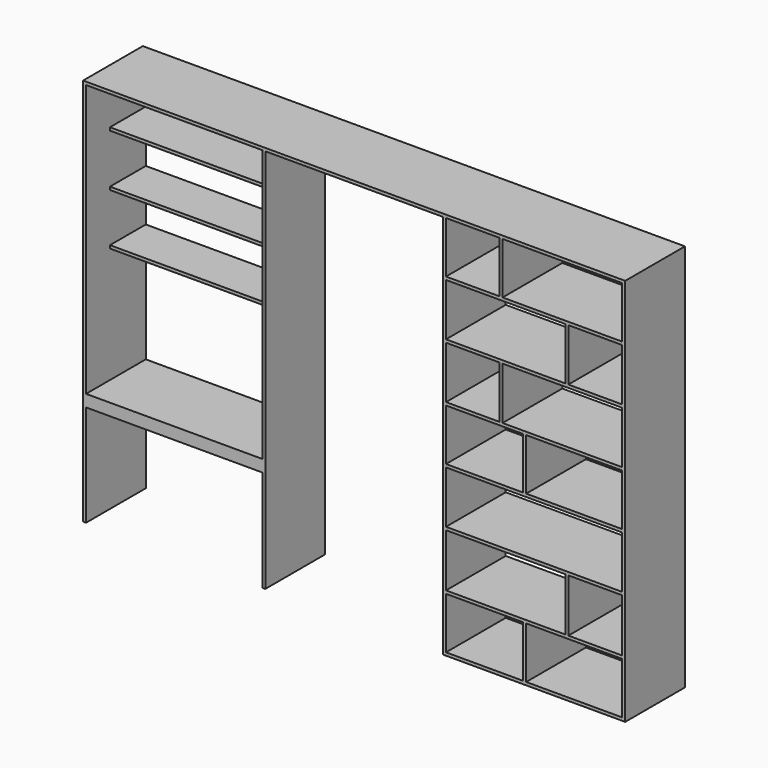
from build123d import *

# Parameters (mm, degrees)
F0_W     = 517.0604085922
F0_H     = 344.9999976158
F0_W_2   = 642.9395914078
F0_W_3   = 799.4206047058
F0_H_2   = 355.0000023842
F0_W_4   = 360.5793952942
F0_H_3   = 344.9999970198
F0_W_5   = 358.938703537
F0_H_4   = 350.0000196695
F0_W_6   = 801.061296463
F0_H_5   = 344.9999785423
F0_H_6   = 350.0000047684
F1_DEPTH = 500
F0_W_7   = 1180
F0_H_7   = 40
F2_DEPTH = 500
F3_DEPTH = 500
F4_START = -200
F0_H_8   = 20
F4_DEPTH = 300


with BuildPart() as f1:
    # F0 (on Front) → F1 (new body)
    with BuildSketch(Plane.XZ):
        Polygon((1414.4206047058, -1300), (1815, -1300), (1815, 1300), (605, 1300), (-605, 1300), (-1815, 1300), (-1815, -1300), (-1795, -1300), (-1795, -620), (-1795, -580), (-1795, -540), (-1795, 235), (-1795, 255), (-1795, 580), (-1795, 600), (-1795, 930), (-1795, 950), (-1795, 1280), (-615, 1280), (-615, 950), (-615, 930), (-615, 600), (-615, 580), (-615, 255), (-615, 235), (-615, -540), (-615, -580), (-615, -620), (-615, -1300), (-605, -1300), (-595, -1300), (-595, 900), (-595, 1280), (595, 1280), (595, 900), (595, -1300), (605, -1300), (665, -1300), align=None)
        with Locations((873.5302042961, -1107.5000011921)):
            Rectangle(F0_W, F0_H, mode=Mode.SUBTRACT)
        with Locations((1473.5302042961, -1107.5000011921)):
            Rectangle(F0_W_2, F0_H, mode=Mode.SUBTRACT)
        with Locations((1014.7103023529, -737.5000011921)):
            Rectangle(F0_W_3, F0_H_2, mode=Mode.SUBTRACT)
        with Locations((1614.7103023529, -737.5000011921)):
            Rectangle(F0_W_4, F0_H_2, mode=Mode.SUBTRACT)
        Polygon((615, -190), (1795, -190), (1795, -540), (1434.4206047058, -540), (1414.4206047058, -540), (615, -540), align=None, mode=Mode.SUBTRACT)
        with Locations((873.5302042961, 2.4999985099)):
            Rectangle(F0_W, F0_H_3, mode=Mode.SUBTRACT)
        with Locations((794.4693517685, 370.0000068545)):
            Rectangle(F0_W_5, F0_H_4, mode=Mode.SUBTRACT)
        with Locations((1473.5302042961, 2.4999985099)):
            Rectangle(F0_W_2, F0_H_3, mode=Mode.SUBTRACT)
        with Locations((1394.4693517685, 370.0000068545)):
            Rectangle(F0_W_6, F0_H_4, mode=Mode.SUBTRACT)
        with Locations((794.4693517685, 1107.5000107288)):
            Rectangle(F0_W_5, F0_H_5, mode=Mode.SUBTRACT)
        with Locations((1014.7103023529, 740.0000190735)):
            Rectangle(F0_W_3, F0_H_6, mode=Mode.SUBTRACT)
        with Locations((1614.7103023529, 740.0000190735)):
            Rectangle(F0_W_4, F0_H_6, mode=Mode.SUBTRACT)
        with Locations((1394.4693517685, 1107.5000107288)):
            Rectangle(F0_W_6, F0_H_5, mode=Mode.SUBTRACT)
    extrude(amount=-F1_DEPTH)

    # F0 (on Front) → F2 (join)
    with BuildSketch(Plane.XZ):
        with Locations((-1205, -560)):
            Rectangle(F0_W_7, F0_H_7)
    extrude(amount=-F2_DEPTH)

    # F0 (on Front) → F3 (join)
    with BuildSketch(Plane.XZ):
        with Locations((-1205, -600)):
            Rectangle(F0_W_7, F0_H_7)
    extrude(amount=-F3_DEPTH)

    # F0 (on Front) → F4 (join)
    with BuildSketch(Plane.XZ.offset(F4_START)):
        with Locations((-1205, 245)):
            Rectangle(F0_W_7, F0_H_8)
        with Locations((-1205, 590)):
            Rectangle(F0_W_7, F0_H_8)
        with Locations((-1205, 940)):
            Rectangle(F0_W_7, F0_H_8)
    extrude(amount=-F4_DEPTH)


solid = f1.part
